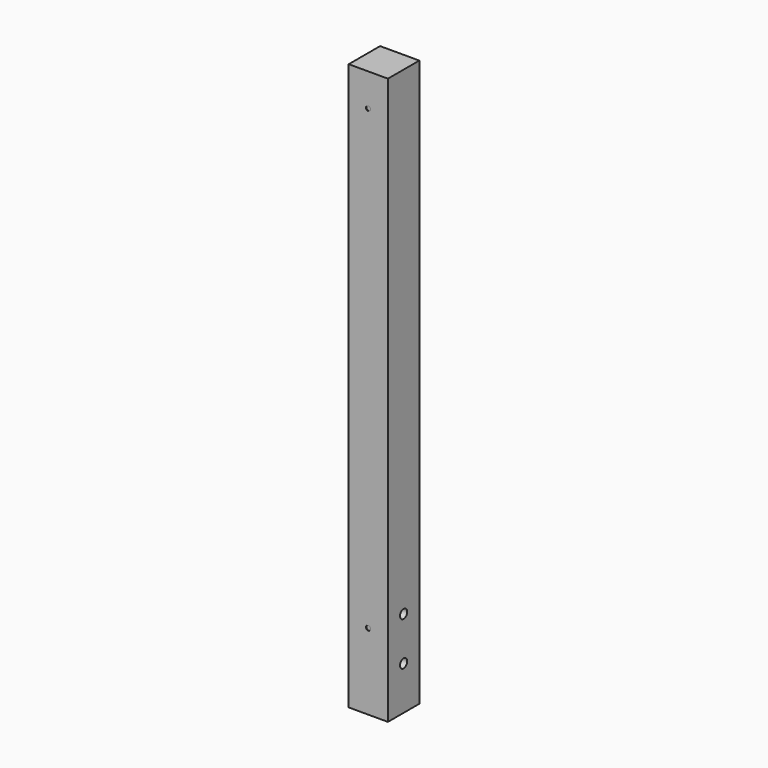
from build123d import *

# Parameters (mm, degrees)
F0_W     = 90
F0_H     = 90
F1_DEPTH = 1300
F2_R     = 5.25
F3_DEPTH = 1
F4_R     = 10.25
F5_DEPTH = 90.001


with BuildPart() as f1:
    # F0 (on Top) → F1 (new body)
    with BuildSketch(Plane.XY):
        Rectangle(F0_W, F0_H)
    extrude(amount=F1_DEPTH)

    # F2 (on face) → F3 (cut)
    with BuildSketch(Plane.XZ.offset(45)):
        with Locations((0, 1225)):
            Circle(F2_R)
        with Locations((0, 175)):
            Circle(F2_R)
    extrude(amount=-F3_DEPTH, mode=Mode.SUBTRACT)

    # F4 (on face) → F5 (cut, through all)
    with BuildSketch(Plane(origin=(-45, 0, 0), x_dir=(0, -1, 0), z_dir=(-1, 0, 0))):
        with Locations((0, 100)):
            Circle(F4_R)
        with Locations((0, 200)):
            Circle(F4_R)
    extrude(amount=-F5_DEPTH, mode=Mode.SUBTRACT)


solid = f1.part
